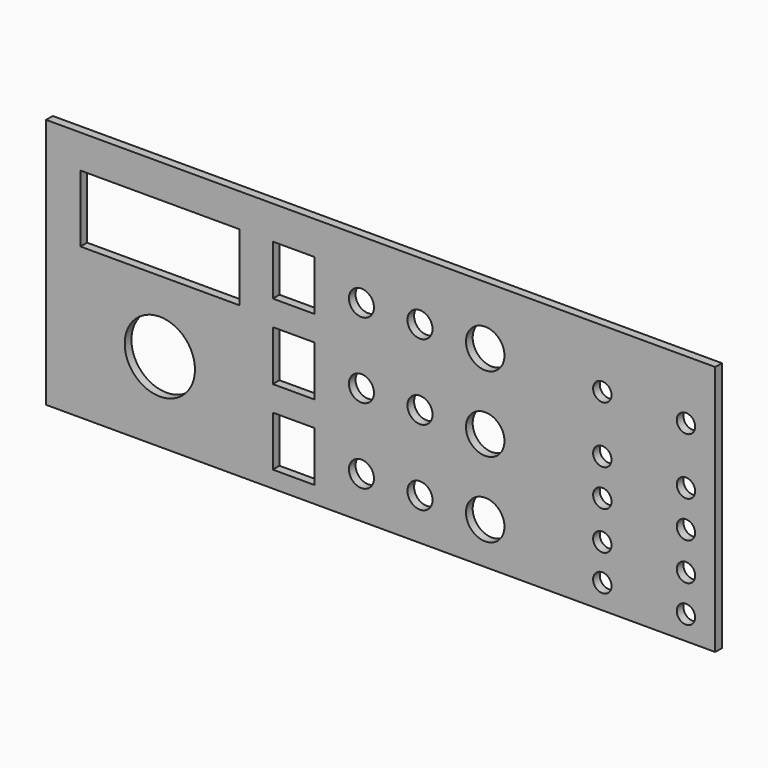
from build123d import *

# Parameters (mm, degrees)
F0_R     = 7.5
F0_R_2   = 21
F0_R_3   = 11.5
F0_R_4   = 5.5
F1_DEPTH = 5


with BuildPart() as f1:
    # F0 (on Front) → F1 (new body)
    with BuildSketch(Plane.XZ):
        Polygon((252, 75), (0, 75), (-148, 75), (-148, -75), (0, -75), (252, -75), align=None)
        Polygon((12.5, -65), (0, -65), (-12.5, -65), (-12.5, -35), (12.5, -35), align=None, mode=Mode.SUBTRACT)
        with Locations((40.5, -50)):
            Circle(F0_R, mode=Mode.SUBTRACT)
        with Locations((-80, -27.5)):
            Circle(F0_R_2, mode=Mode.SUBTRACT)
        Polygon((-12.5, 10), (0, 10), (12.5, 10), (12.5, -20), (-12.5, -20), align=None, mode=Mode.SUBTRACT)
        with Locations((40.5, -5)):
            Circle(F0_R, mode=Mode.SUBTRACT)
        with Locations((75.5, -50)):
            Circle(F0_R, mode=Mode.SUBTRACT)
        with Locations((114.5, -50)):
            Circle(F0_R_3, mode=Mode.SUBTRACT)
        with Locations((184.5, -60.461955)):
            Circle(F0_R_4, mode=Mode.SUBTRACT)
        with Locations((234.5, -60.766925)):
            Circle(F0_R_4, mode=Mode.SUBTRACT)
        with Locations((184.5, -39)):
            Circle(F0_R_4, mode=Mode.SUBTRACT)
        with Locations((234.5, -38.76697)):
            Circle(F0_R_4, mode=Mode.SUBTRACT)
        with Locations((75.5, -5)):
            Circle(F0_R, mode=Mode.SUBTRACT)
        with Locations((114.5, -5)):
            Circle(F0_R_3, mode=Mode.SUBTRACT)
        with Locations((184.5, -16)):
            Circle(F0_R_4, mode=Mode.SUBTRACT)
        with Locations((234.5, -16.30497)):
            Circle(F0_R_4, mode=Mode.SUBTRACT)
        Polygon((-127.5, 15), (-127.5, 55), (-75, 55), (-32.5, 55), (-32.5, 40), (-32.5, 15), align=None, mode=Mode.SUBTRACT)
        Polygon((-12.5, 55), (0, 55), (12.5, 55), (12.5, 25), (-12.5, 25), align=None, mode=Mode.SUBTRACT)
        with Locations((40.5, 40)):
            Circle(F0_R, mode=Mode.SUBTRACT)
        with Locations((184.5, 6)):
            Circle(F0_R_4, mode=Mode.SUBTRACT)
        with Locations((234.5, 5.69503)):
            Circle(F0_R_4, mode=Mode.SUBTRACT)
        with Locations((75.5, 40)):
            Circle(F0_R, mode=Mode.SUBTRACT)
        with Locations((114.5, 40)):
            Circle(F0_R_3, mode=Mode.SUBTRACT)
        with Locations((184.5, 40)):
            Circle(F0_R_4, mode=Mode.SUBTRACT)
        with Locations((234.5, 39.69503)):
            Circle(F0_R_4, mode=Mode.SUBTRACT)
    extrude(amount=F1_DEPTH)


solid = f1.part
